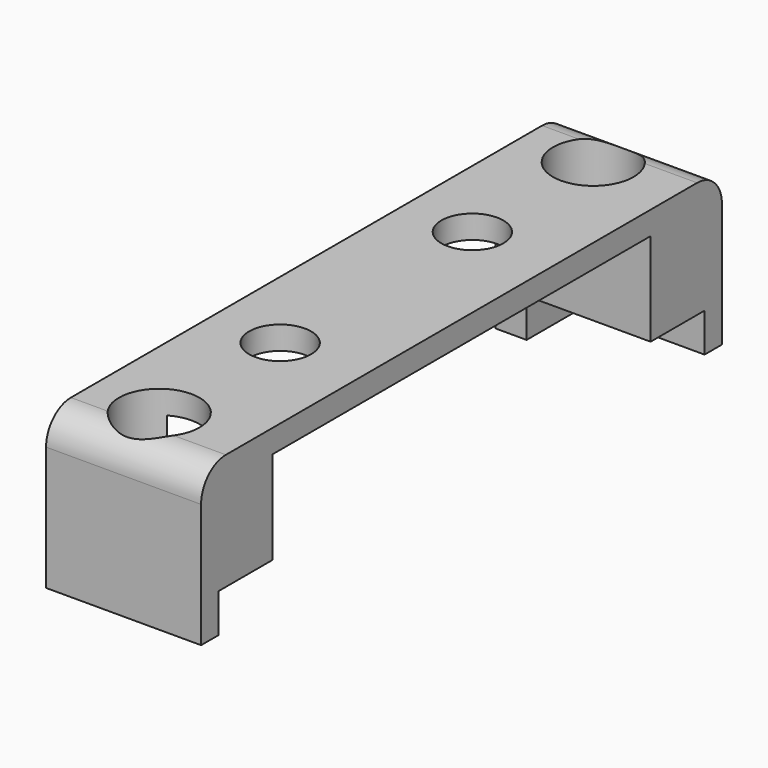
from build123d import *

# Parameters (mm, degrees)
CYLINDER322_R     = 2.6
CYLINDER322_DEPTH = 10
CYLINDER321_R     = 2.6
CYLINDER321_DEPTH = 10
CYLINDER320_R     = 1.6
CYLINDER320_DEPTH = 14
CYLINDER319_R     = 1.6
CYLINDER319_DEPTH = 15
CYLINDER326_R     = 2
CYLINDER326_DEPTH = 18
CYLINDER325_R     = 2
CYLINDER325_DEPTH = 18
BOX241_W          = 69.8
BOX241_H          = 39.2
BOX241_DEPTH      = 4
BOX240_W          = 12
BOX240_H          = 30.5
BOX240_DEPTH      = 8.5
BOX235_W          = 10
BOX235_H          = 42
BOX235_DEPTH      = 10
FILLET123_R       = 2


with BuildPart() as zylinder324:
    # Cylinder322 → Cylinder322 (new body)
    with BuildSketch(Plane(origin=(-40.5, -17.5, 24), x_dir=(1, 0, 0), z_dir=(0, 0, 1))):
        Circle(CYLINDER322_R)
    extrude(amount=CYLINDER322_DEPTH)


with BuildPart() as zylinder323:
    # Cylinder321 → Cylinder321 (new body)
    with BuildSketch(Plane(origin=(-40.5, 17.5, 24), x_dir=(1, 0, 0), z_dir=(0, 0, 1))):
        Circle(CYLINDER321_R)
    extrude(amount=CYLINDER321_DEPTH)


with BuildPart() as zylinder322:
    # Cylinder320 → Cylinder320 (new body)
    with BuildSketch(Plane(origin=(-40.5, 17.5, 13), x_dir=(1, 0, 0), z_dir=(0, 0, 1))):
        Circle(CYLINDER320_R)
    extrude(amount=CYLINDER320_DEPTH)


with BuildPart() as zylinder321:
    # Cylinder319 → Cylinder319 (new body)
    with BuildSketch(Plane(origin=(-40.5, -17.5, 12.25), x_dir=(1, 0, 0), z_dir=(0, 0, 1))):
        Circle(CYLINDER319_R)
    extrude(amount=CYLINDER319_DEPTH)


with BuildPart() as zylinder328:
    # Cylinder326 → Cylinder326 (new body)
    with BuildSketch(Plane(origin=(-40.5, -2, 12.25), x_dir=(1, 0, 0), z_dir=(0, 0, 1))):
        Circle(CYLINDER326_R)
    extrude(amount=CYLINDER326_DEPTH)


with BuildPart() as fusion217:
    # Cylinder325 → Cylinder325 (new body)
    with BuildSketch(Plane(origin=(-40.5, -17.5, 12.25), x_dir=(1, 0, 0), z_dir=(0, 0, 1))):
        Circle(CYLINDER325_R)
    extrude(amount=CYLINDER325_DEPTH)

    # Fusion217: union Zylinder328
    add(zylinder328.part)


with BuildPart() as fusion217_1:
    # Fusion217 placement: moved
    add(fusion217.part.moved(Location((0, 9.75, 0))))


with BuildPart() as board006:
    # Box241 → Box241 (new body)
    with BuildSketch(Plane(origin=(-43, -19.6, 16), x_dir=(1, 0, 0), z_dir=(0, 0, 1))):
        with Locations((34.9, 19.6)):
            Rectangle(BOX241_W, BOX241_H)
    extrude(amount=BOX241_DEPTH)


with BuildPart() as fusion216:
    # Box240 → Box240 (new body)
    with BuildSketch(Plane(origin=(-46, -15.25, 17.5), x_dir=(1, 0, 0), z_dir=(0, 0, 1))):
        with Locations((6, 15.25)):
            Rectangle(BOX240_W, BOX240_H)
    extrude(amount=BOX240_DEPTH)

    # Fusion216: union Zylinder324, Zylinder323, Zylinder322, Zylinder321, Fusion217, board006
    add(zylinder324.part)
    add(zylinder323.part)
    add(zylinder322.part)
    add(zylinder321.part)
    add(fusion217_1.part)
    add(board006.part)


with BuildPart() as cut150:
    # Box235 → Box235 (new body)
    with BuildSketch(Plane(origin=(-45, -21, 17.5), x_dir=(1, 0, 0), z_dir=(0, 0, 1))):
        with Locations((5, 21)):
            Rectangle(BOX235_W, BOX235_H)
    extrude(amount=BOX235_DEPTH)

    # Fillet123
    fillet123_edges = [cut150.edges().sort_by_distance(p)[0] for p in [
        (-40, -21, 27.5),
        (-40, 21, 27.5),
    ]]
    fillet(fillet123_edges, radius=FILLET123_R)

    # Cut150: cut Fusion216
    add(fusion216.part, mode=Mode.SUBTRACT)


with BuildPart() as cut150_1:
    # Cut150 placement: moved
    add(cut150.part.moved(Location((0, 0, 0.5))))


solid = cut150_1.part
